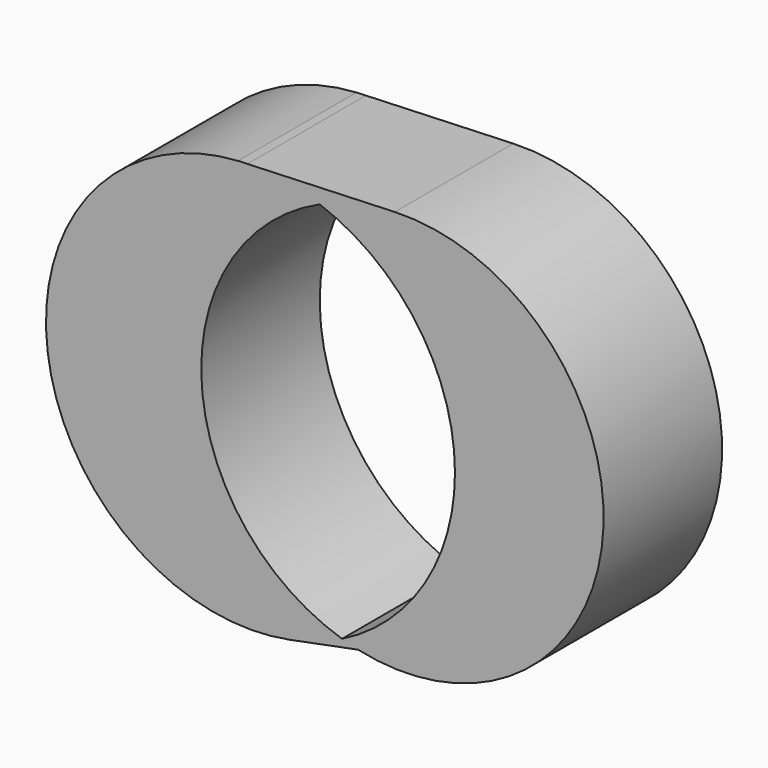
from build123d import *

# Parameters (mm, degrees)
F1_DEPTH = 25.4


with BuildPart() as f1:
    # F0 (on Front) → F1 (new body)
    with BuildSketch(Plane.XZ):
        with BuildLine():
            ThreePointArc((-62.0742431231, 12.1275106108), (-32.9349220505, 18.8315439794), (-19.9771218772, 45.7785198887))
            ThreePointArc((-19.9771218772, 45.7785198887), (-30.5502538292, 70.6324730602), (-55.7886853068, 80.2518121269))
            ThreePointArc((-55.7886853068, 80.2518121269), (-62.3736412664, 79.3605186208), (-68.6655590548, 77.2232728115))
            ThreePointArc((-68.6655590548, 77.2232728115), (-51.8477242561, 64.3940213884), (-45.4679917115, 44.2265160382))
            ThreePointArc((-45.4679917115, 44.2265160382), (-50.6994698519, 25.8001636078), (-64.8329617476, 12.8717749126))
            ThreePointArc((-64.8329617476, 12.8717749126), (-63.4613112844, 12.4710688463), (-62.0742431231, 12.1275106108))
        make_face()
        with BuildLine():
            ThreePointArc((-68.6655590548, 77.2232728115), (-62.3736412664, 79.3605186208), (-55.7886853068, 80.2518121269))
            Line((-55.7886853068, 80.2518121269), (-81.0626311762, 79.2889970125))
            ThreePointArc((-81.0626311762, 79.2889970125), (-74.7707941721, 78.8160637368), (-68.6655590548, 77.2232728115))
        make_face()
        with BuildLine():
            Line((-73.7431172592, 9.8239821687), (-62.0742431231, 12.1275106108))
            ThreePointArc((-62.0742431231, 12.1275106108), (-63.4613112844, 12.4710688463), (-64.8329617476, 12.8717749126))
            ThreePointArc((-64.8329617476, 12.8717749126), (-69.1852646079, 11.0474183786), (-73.7431172592, 9.8239821687))
        make_face()
        with BuildLine():
            ThreePointArc((-64.8329617476, 12.8717749126), (-88.9126957368, 43.7275309271), (-68.6655590548, 77.2232728115))
            ThreePointArc((-68.6655590548, 77.2232728115), (-74.7707941721, 78.8160637368), (-81.0626311762, 79.2889970125))
            Line((-81.0626311762, 79.2889970125), (-82.6753517269, 79.2275601585))
            ThreePointArc((-82.6753517269, 79.2275601585), (-115.3140537826, 39.7503841393), (-73.7431172592, 9.8239821687))
            ThreePointArc((-73.7431172592, 9.8239821687), (-69.1852646079, 11.0474183786), (-64.8329617476, 12.8717749126))
        make_face()
        with BuildLine():
            Line((-82.6753517269, 79.2275601585), (-81.0626311762, 79.2889970125))
            ThreePointArc((-81.0626311762, 79.2889970125), (-81.8693449427, 79.2675577474), (-82.6753517269, 79.2275601585))
        make_face()
    extrude(amount=F1_DEPTH)


solid = f1.part
